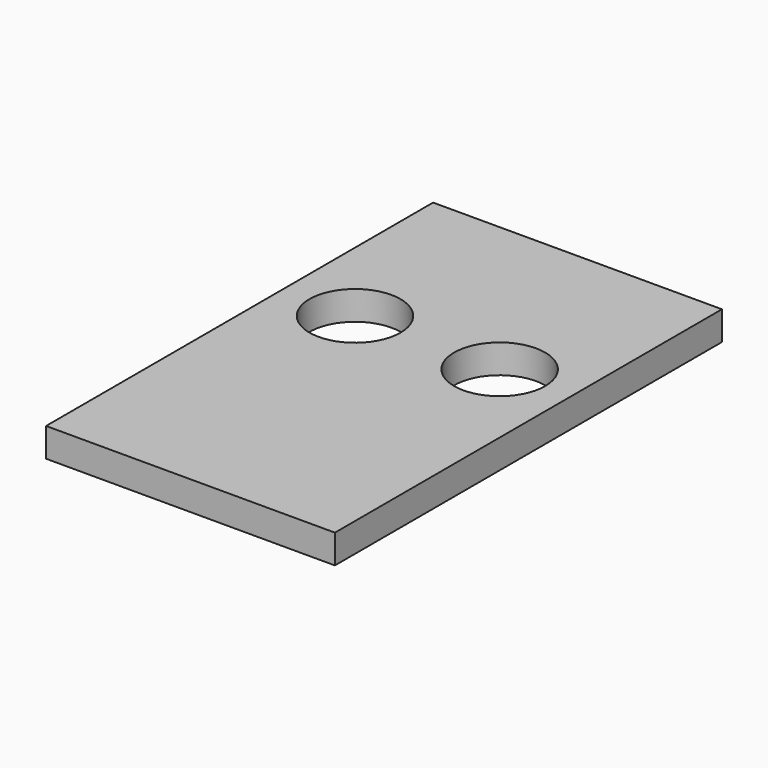
from build123d import *

# Parameters (mm, degrees)
F0_W     = 50.8
F0_H     = 85.09
F1_DEPTH = 5.08
F2_R     = 8.001
F3_DEPTH = 25.4


with BuildPart() as f1:
    # F0 (on Top) → F1 (new body)
    with BuildSketch(Plane.XY):
        with Locations((3.704702, 24.286427)):
            Rectangle(F0_W, F0_H)
        with Locations((3.704702, 24.286427)):
            Rectangle(F0_W, F0_H)
    extrude(amount=F1_DEPTH)

    # F2 (on face) → F3 (cut)
    with BuildSketch(Plane.XY.offset(5.08)):
        with Locations((16.423752, 33.811427)):
            Circle(F2_R)
        with Locations((-9.014348, 33.811427)):
            Circle(F2_R)
    extrude(amount=-F3_DEPTH, mode=Mode.SUBTRACT)


solid = f1.part
